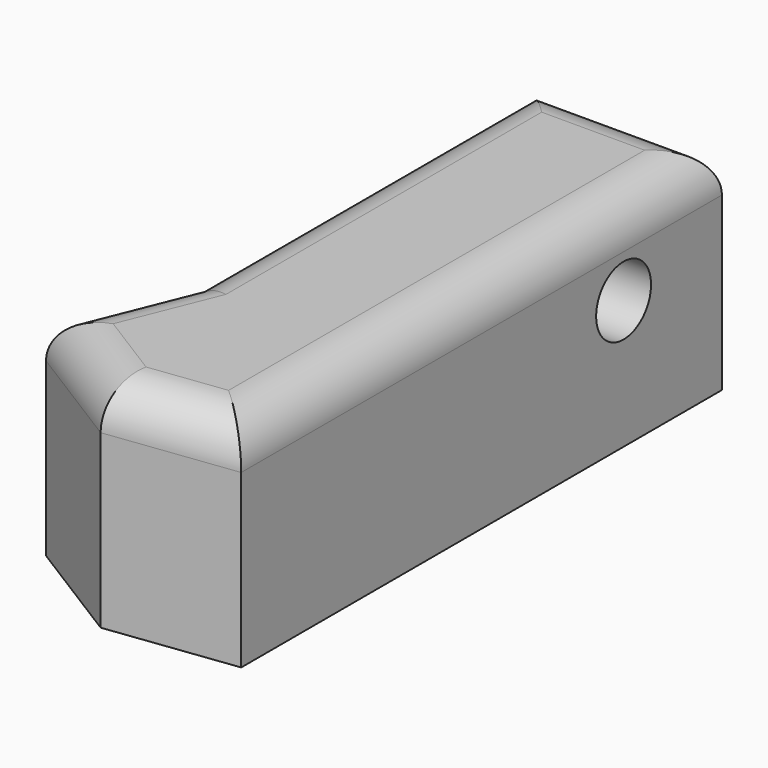
from build123d import *

# Parameters (mm, degrees)
F1_DEPTH = 25
F2_R     = 4
F3_DEPTH = 22.001
F4_R     = 5


with BuildPart() as f1:
    # F0 (on Top) → F1 (new body)
    with BuildSketch(Plane.XY):
        Polygon((5, 47.435442), (-17, 47.435442), (-17, -2.564558), (-22.601457, -16.47943), (-9.883268, -24.432269), (5, -22.564558), align=None)
    extrude(amount=F1_DEPTH)

    # F2 (on face) → F3 (cut, through all)
    with BuildSketch(Plane(origin=(-17, 0, 0), x_dir=(0, -1, 0), z_dir=(-1, 0, 0))):
        with Locations((-33.117216, 15)):
            Circle(F2_R)
    extrude(amount=-F3_DEPTH, mode=Mode.SUBTRACT)

    # F4
    f4_edges = [f1.edges().sort_by_distance(p)[0] for p in [
        (-6, 47.435442, 25),
        (-17, 22.435442, 25),
        (-19.800729, -9.521994, 25),
        (-16.242363, -20.45585, 25),
        (-2.441634, -23.498413, 25),
        (5, 12.435442, 25),
    ]]
    fillet(f4_edges, radius=F4_R)


solid = f1.part
